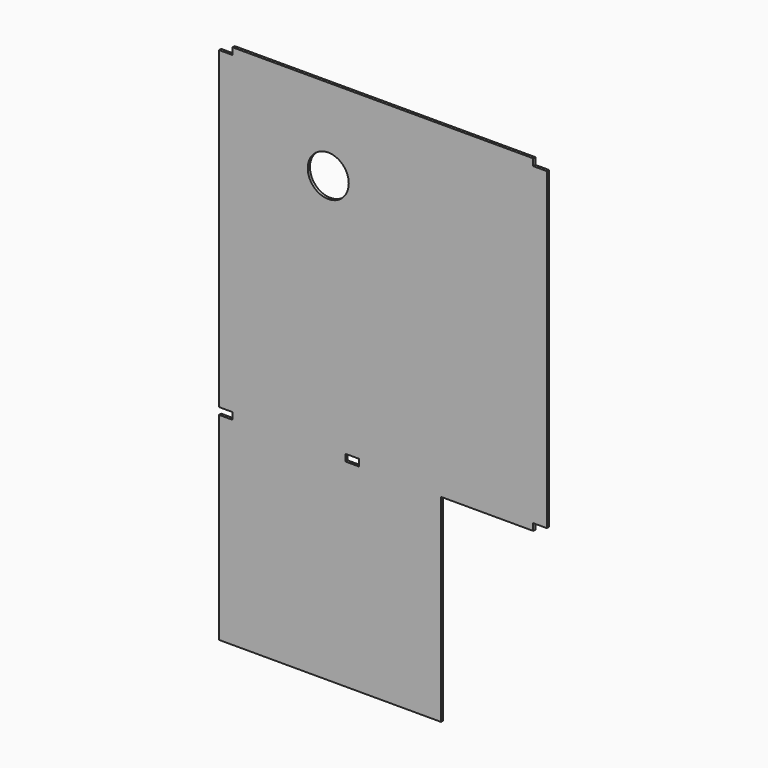
from build123d import *

# Parameters (mm, degrees)
F1_DEPTH = 10.0076
F2_W     = 50.8
F2_H     = 25.4
F3_DEPTH = 10.0086
F4_R     = 76.2
F5_DEPTH = 10.0086


with BuildPart() as f1:
    # F0 (on Front) → F1 (new body)
    with BuildSketch(Plane.XZ):
        Polygon((711.428056, 899.191029), (-507.771944, 899.191029), (-507.771944, -1056.608971), (317.728056, -1056.608971), (317.728056, -320.008971), (711.428056, -320.008971), align=None)
    extrude(amount=F1_DEPTH)

    # F2 (on face) → F3 (cut, through all)
    with BuildSketch(Plane.XZ.offset(10.0076)):
        with Locations((686.028056, 886.491029)):
            Rectangle(F2_W, F2_H)
        with Locations((-482.371944, 886.491029)):
            Rectangle(F2_W, F2_H)
        with Locations((686.028056, -307.308971)):
            Rectangle(F2_W, F2_H)
        with Locations((-482.371944, -307.308971)):
            Rectangle(F2_W, F2_H)
        with Locations((-12.471944, -307.308971)):
            Rectangle(F2_W, F2_H)
    extrude(amount=-F3_DEPTH, mode=Mode.SUBTRACT)

    # F4 (on face) → F5 (cut, through all)
    with BuildSketch(Plane.XZ.offset(10.0076)):
        with Locations((-101.371944, 594.391029)):
            Circle(F4_R)
    extrude(amount=-F5_DEPTH, mode=Mode.SUBTRACT)


solid = f1.part
